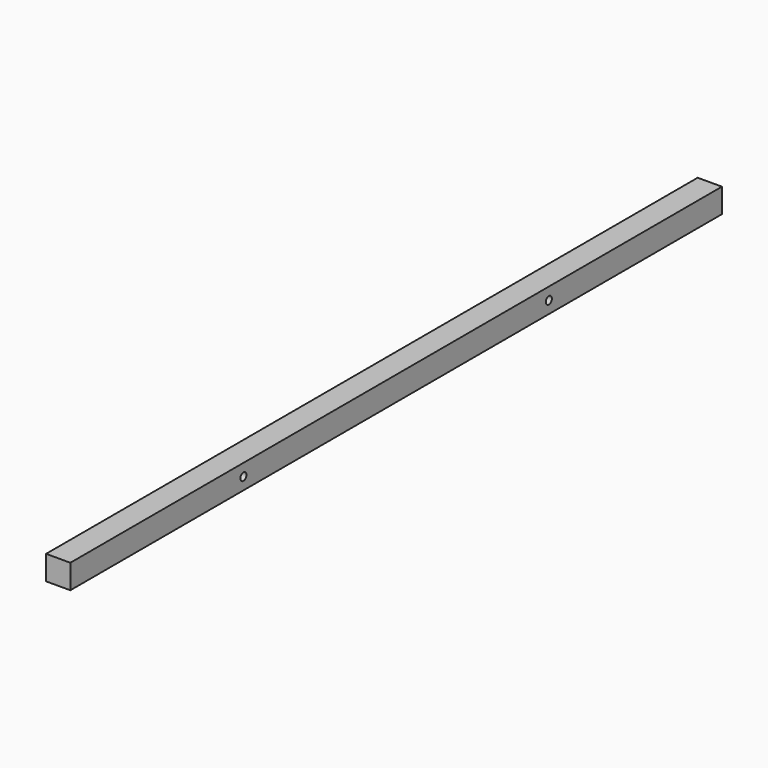
from build123d import *

# Parameters (mm, degrees)
SKETCH_W  = 640.1
SKETCH_H  = 19.05
SKETCH_R  = 3
PAD_DEPTH = 19.05


with BuildPart() as part:
    # Sketch → Pad (new body)
    with BuildSketch(Plane.YZ):
        with Locations((320.05, 9.525)):
            Rectangle(SKETCH_W, SKETCH_H)
        with Locations((170.05, 9.525)):
            Circle(SKETCH_R, mode=Mode.SUBTRACT)
        with Locations((470.05, 9.525)):
            Circle(SKETCH_R, mode=Mode.SUBTRACT)
    extrude(amount=PAD_DEPTH)


solid = part.part
